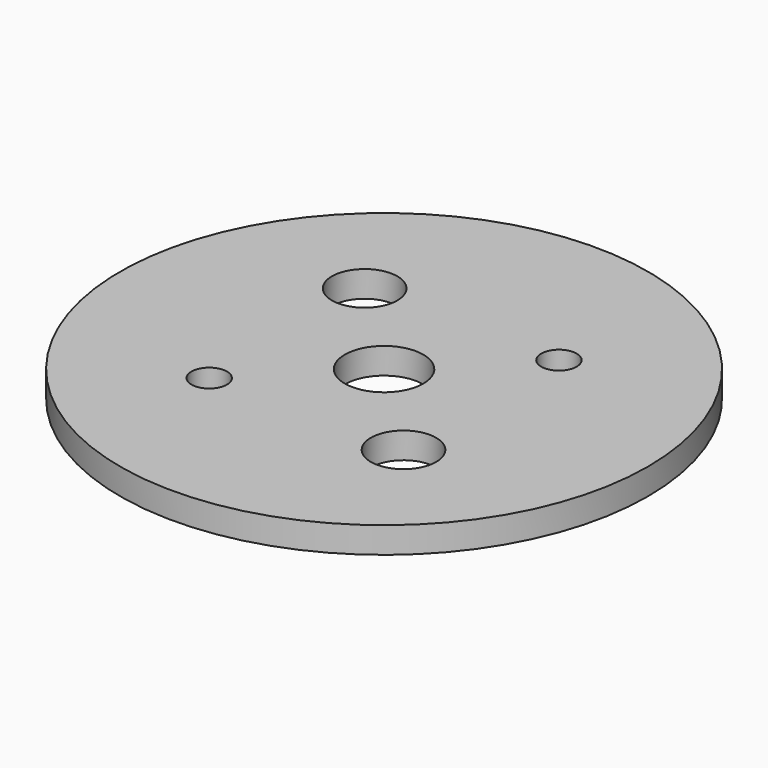
from build123d import *

# Parameters (mm, degrees)
F0_R     = 32.0294
F0_R_2   = 2.15265
F0_R_3   = 3.96875
F0_R_4   = 4.7625
F1_DEPTH = 3.175


with BuildPart() as f1:
    # F0 (on Top) → F1 (new body)
    with BuildSketch(Plane.XY):
        Circle(F0_R)
        with Locations((-11.786586, -11.786586)):
            Circle(F0_R_2, mode=Mode.SUBTRACT)
        with Locations((11.786586, -11.786586)):
            Circle(F0_R_3, mode=Mode.SUBTRACT)
        with Locations((-11.786586, 11.786586)):
            Circle(F0_R_3, mode=Mode.SUBTRACT)
        Circle(F0_R_4, mode=Mode.SUBTRACT)
        with Locations((11.786586, 11.786586)):
            Circle(F0_R_2, mode=Mode.SUBTRACT)
    extrude(amount=F1_DEPTH)


solid = f1.part
